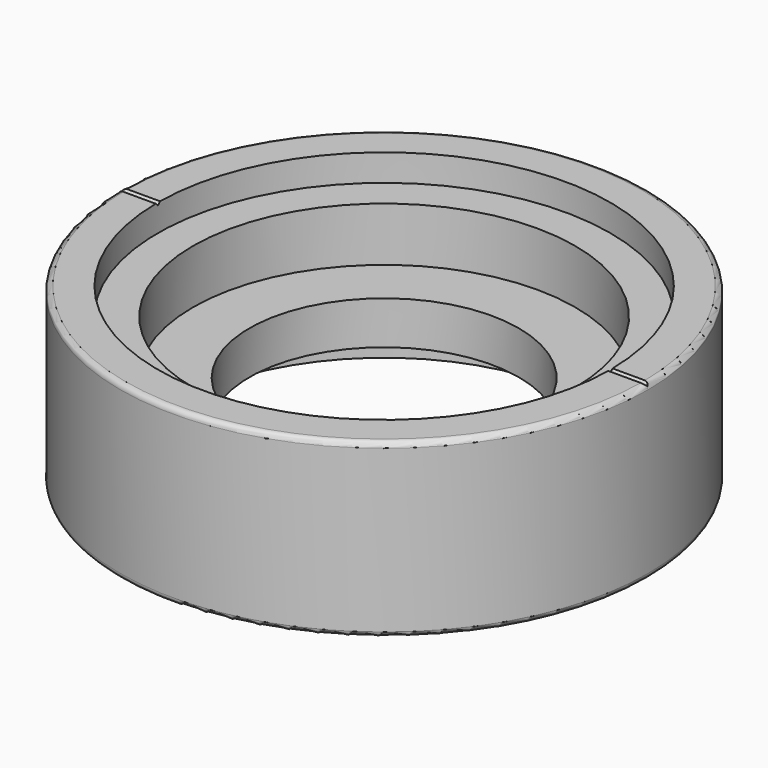
from build123d import *

# Parameters (mm, degrees)
F0_R     = 38.89375
F0_R_2   = 33.33115
F1_DEPTH = 25.4
F0_R_3   = 28.17495
F2_DEPTH = 21.4376
F0_R_4   = 19.84375
F3_DEPTH = 13.4874
F4_R     = 30.94355
F4_R_2   = 19.84375
F5_DEPTH = 7.1374
F6_R     = 0.7874
F9_DEPTH = 127


with BuildPart() as f1:
    # F0 (on Top) → F1 (new body)
    with BuildSketch(Plane.XY):
        Circle(F0_R)
        Circle(F0_R_2, mode=Mode.SUBTRACT)
    extrude(amount=F1_DEPTH)

    # F0 (on Top) → F2 (join, through all)
    with BuildSketch(Plane.XY):
        Circle(F0_R_2)
        Circle(F0_R_3, mode=Mode.SUBTRACT)
    extrude(amount=F2_DEPTH)

    # F0 (on Top) → F3 (join, through all)
    with BuildSketch(Plane.XY):
        Circle(F0_R_3)
        Circle(F0_R_4, mode=Mode.SUBTRACT)
    extrude(amount=F3_DEPTH)

    # F4 (on face) → F5 (cut, through all)
    with BuildSketch(Plane(origin=(0, 0, 0), x_dir=(1, 0, 0), z_dir=(0, 0, -1))):
        Circle(F4_R)
        Circle(F4_R_2, mode=Mode.SUBTRACT)
    extrude(amount=-F5_DEPTH, mode=Mode.SUBTRACT)

    # F6
    f6_edges = [f1.edges().sort_by_distance(p)[0] for p in [
        (-38.89375, 0, 25.4),
        (-38.89375, 0, 0),
    ]]
    fillet(f6_edges, radius=F6_R)

    # F8 (on offset) → F9 (cut)
    with BuildSketch(Plane.YZ.offset(-38.89375)):
        Polygon((0, 24.9936), (0.3937, 25.4), (-0.3937, 25.4), align=None)
    extrude(amount=F9_DEPTH, mode=Mode.SUBTRACT)


solid = f1.part
